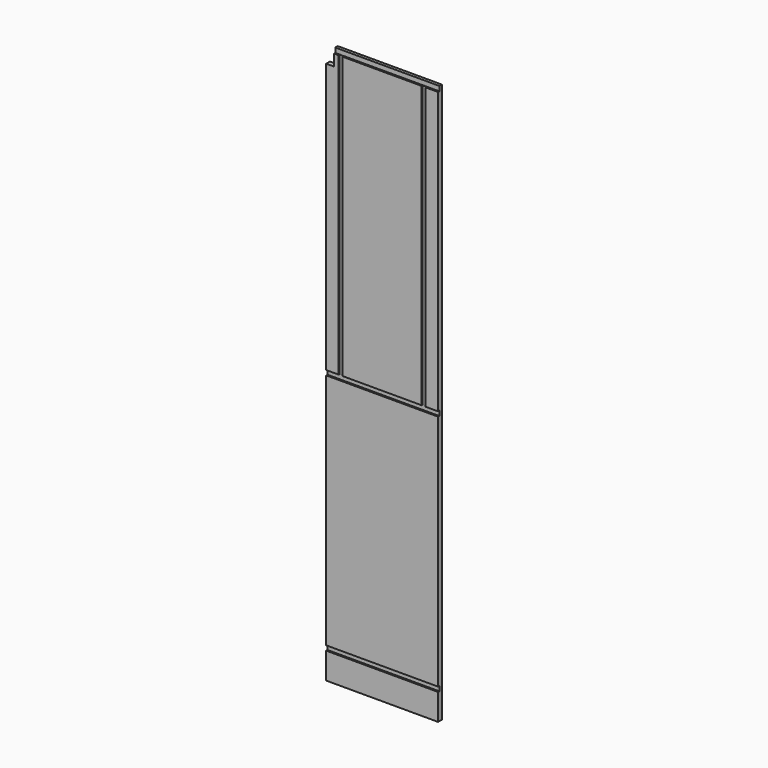
from build123d import *

# Parameters (mm, degrees)
F0_W     = 457.2
F0_H     = 2286
F1_DEPTH = 19.05
F2_W     = 32.004
F2_H     = 66.04
F3_DEPTH = 19.051
F4_W     = 530.741885
F4_H     = 19.304
F4_W_2   = 553.289723
F4_W_3   = 548.530197
F4_H_2   = 28.542519
F5_DEPTH = 6.35
F6_W     = 15.875
F6_H     = 1169.065192
F6_H_2   = 1174.501539
F7_DEPTH = 4.7625


with BuildPart() as f1:
    # F0 (on Front) → F1 (new body)
    with BuildSketch(Plane.XZ):
        with Locations((228.6, 1143)):
            Rectangle(F0_W, F0_H)
    extrude(amount=F1_DEPTH)

    # F2 (on face) → F3 (cut, through all)
    with BuildSketch(Plane.XZ.offset(19.05)):
        with Locations((16.002, 2252.98)):
            Rectangle(F2_W, F2_H)
    extrude(amount=-F3_DEPTH, mode=Mode.SUBTRACT)

    # F4 (on face) → F5 (cut)
    with BuildSketch(Plane.XZ.offset(19.05)):
        with Locations((253.698116, 117.348)):
            Rectangle(F4_W, F4_H)
        with Locations((251.708144, 1107.948)):
            Rectangle(F4_W_2, F4_H)
        with Locations((257.628393, 2280.96726)):
            Rectangle(F4_W_3, F4_H_2)
    extrude(amount=-F5_DEPTH, mode=Mode.SUBTRACT)

    # F6 (on face) → F7 (cut)
    with BuildSketch(Plane.XZ.offset(19.05)):
        with Locations((58.7375, 1692.303397)):
            Rectangle(F6_W, F6_H)
        with Locations((398.4625, 1694.760024)):
            Rectangle(F6_W, F6_H_2)
    extrude(amount=-F7_DEPTH, mode=Mode.SUBTRACT)


solid = f1.part
